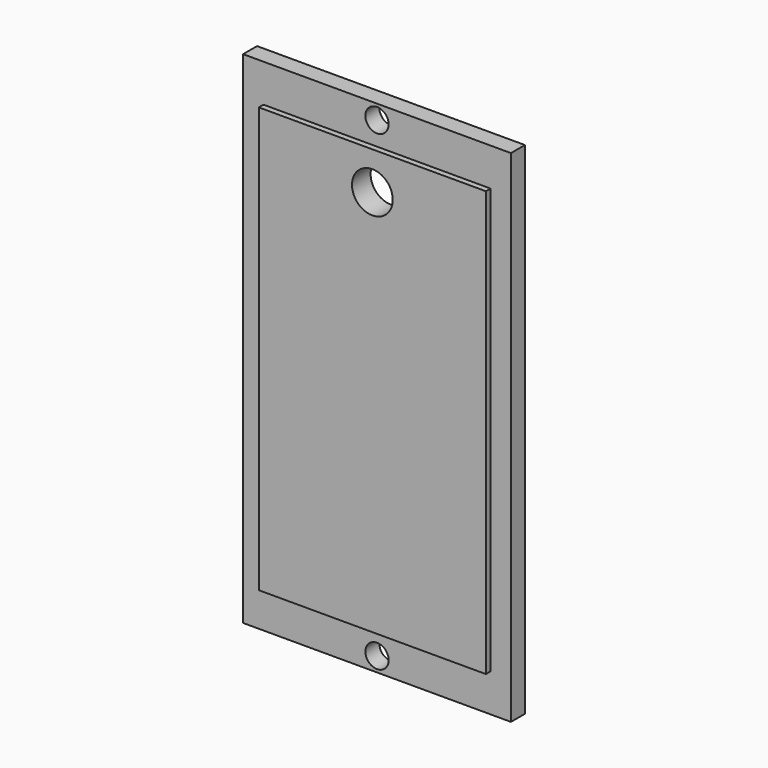
from build123d import *

# Parameters (mm, degrees)
F0_W     = 46
F0_H     = 86
F1_DEPTH = 3
F2_W     = 39
F2_H     = 73
F3_DEPTH = 1
F4_R     = 2
F5_DEPTH = 3
F6_R     = 3.5
F7_DEPTH = 4


with BuildPart() as f1:
    # F0 (on Front) → F1 (new body)
    with BuildSketch(Plane.XZ):
        Rectangle(F0_W, F0_H)
    extrude(amount=F1_DEPTH)

    # F2 (on face) → F3 (join)
    with BuildSketch(Plane.XZ.offset(3)):
        Rectangle(F2_W, F2_H)
    extrude(amount=F3_DEPTH)

    # F4 (on face) → F5 (cut)
    with BuildSketch(Plane.XZ.offset(3)):
        with Locations((0, 40.5)):
            Circle(F4_R)
        with Locations((0, -40.5)):
            Circle(F4_R)
    extrude(amount=-F5_DEPTH, mode=Mode.SUBTRACT)

    # F6 (on face) → F7 (cut)
    with BuildSketch(Plane.XZ.offset(4)):
        with Locations((0, 30)):
            Circle(F6_R)
    extrude(amount=-F7_DEPTH, mode=Mode.SUBTRACT)


solid = f1.part
